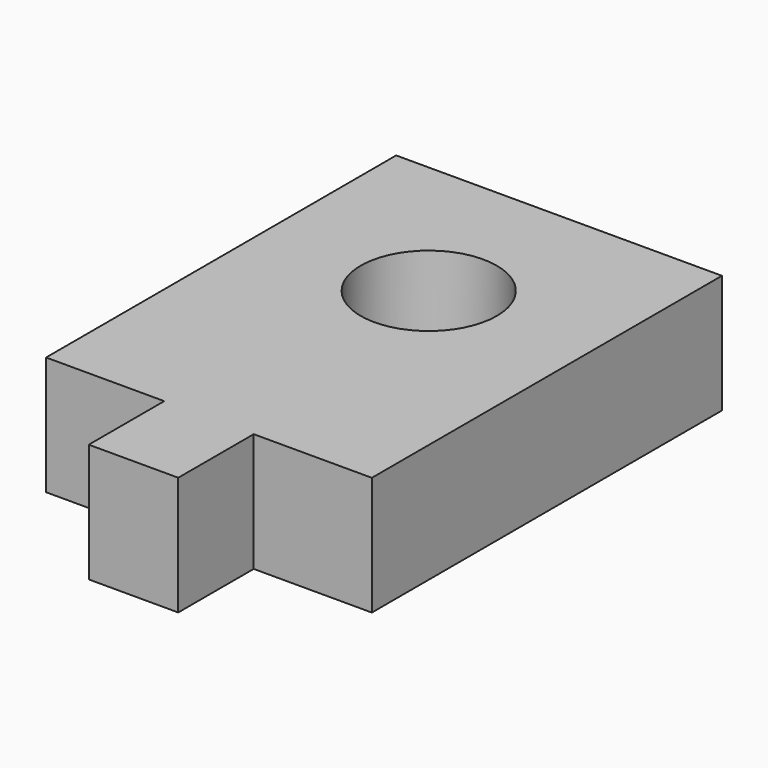
from build123d import *

# Parameters (mm, degrees)
F0_R     = 3.5
F1_DEPTH = 6.1


with BuildPart() as f1:
    # F0 (on Top) → F1 (new body)
    with BuildSketch(Plane.XY):
        Polygon((21.76044, 11.477244), (5.01044, 11.477244), (5.01044, -11.022756), (11.08544, -11.022756), (11.08544, -15.872756), (15.68544, -15.872756), (15.68544, -11.022756), (21.76044, -11.022756), align=None)
        with Locations((13.38544, 3.102244)):
            Circle(F0_R, mode=Mode.SUBTRACT)
    extrude(amount=F1_DEPTH)


solid = f1.part
